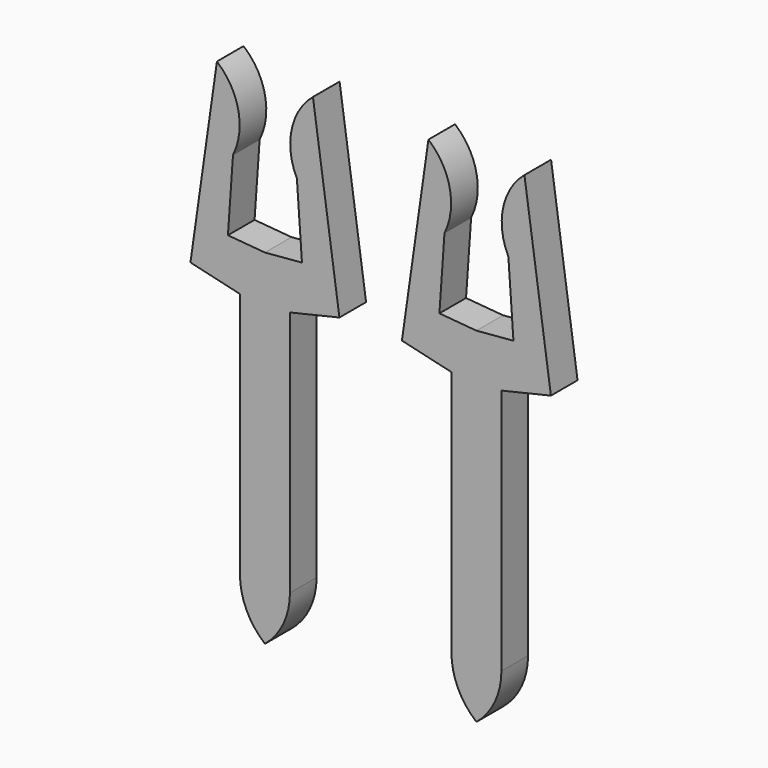
from build123d import *

# Parameters (mm, degrees)
EXTRUDE014_DEPTH                     = 0.4
EXTRUDE014_ONTO_SKETCH014_ROLL_ANGLE = 90
ARRAY011_X_COUNT                     = 2
ARRAY011_X_PITCH                     = 2.54


with BuildPart() as obj1:
    # Sketch014 as drawn → Extrude014 (new)
    with BuildSketch(Plane.XY):
        with BuildLine():
            Line((-0.576584, 2.969708), (-0.894618, 0.740609))
            Line((-0.894618, 0.740609), (-0.3, 0.601222))
            Line((-0.3, 0.601222), (-0.3, -2.364495))
            ThreePointArc((-0.3, -2.364495), (-0.221231, -2.715873), (0, -3))
            Line((0, -3), (0, 1.136926))
            Line((0, 1.136926), (-0.444653, 1.17505))
            Line((-0.444653, 1.17505), (-0.383655, 2.044284))
            ThreePointArc((-0.383655, 2.044284), (-0.319772, 2.540424), (-0.576584, 2.969708))
        make_face()
    extrude(amount=-EXTRUDE014_DEPTH)


with BuildPart() as obj1_1:
    # Extrude014 onto Sketch014 roll: moved
    add(obj1.part.rotate(Axis((0, 0, 0), (1, 0, 0)), EXTRUDE014_ONTO_SKETCH014_ROLL_ANGLE))


with BuildPart() as obj1_2:
    # Extrude014 onto Sketch014 placement: moved
    add(obj1_1.part.moved(Location((0, -0.2, 0))))


with BuildPart() as pins005:
    # Part__Mirroring004: instance of obj1
    add(obj1_2.part.mirror(Plane(origin=(0, 0, 0), x_dir=(0, -1, 0), z_dir=(1, 0, 0))))

    # Fusion008: union obj1
    add(obj1_2.part)

    # Array011 X: pins005 ×2


with BuildPart() as pins005_1:
    add(pins005.part)
    with Locations(*[(i * ARRAY011_X_PITCH, 0, 0) for i in range(1, ARRAY011_X_COUNT)]):
        add(pins005.part)


solid = pins005_1.part
